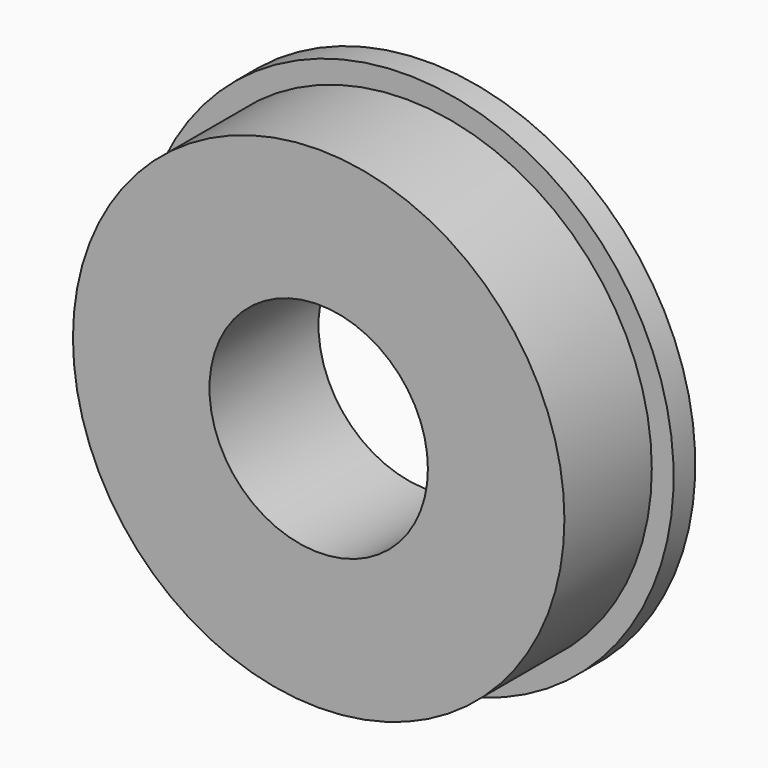
from build123d import *

# Parameters (mm, degrees)
F0_R     = 14.2875
F0_R_2   = 6.35
F1_DEPTH = 7.9248
F2_R     = 15.5575
F2_R_2   = 6.35
F3_DEPTH = 1.5748


with BuildPart() as f1:
    # F0 (on Front) → F1 (new body)
    with BuildSketch(Plane.XZ):
        Circle(F0_R)
        Circle(F0_R_2, mode=Mode.SUBTRACT)
    extrude(amount=F1_DEPTH)

    # F2 (on face) → F3 (join)
    with BuildSketch(Plane(origin=(0, 0, 0), x_dir=(-1, 0, 0), z_dir=(0, 1, 0))):
        Circle(F2_R)
        Circle(F2_R_2, mode=Mode.SUBTRACT)
    extrude(amount=-F3_DEPTH)


solid = f1.part
